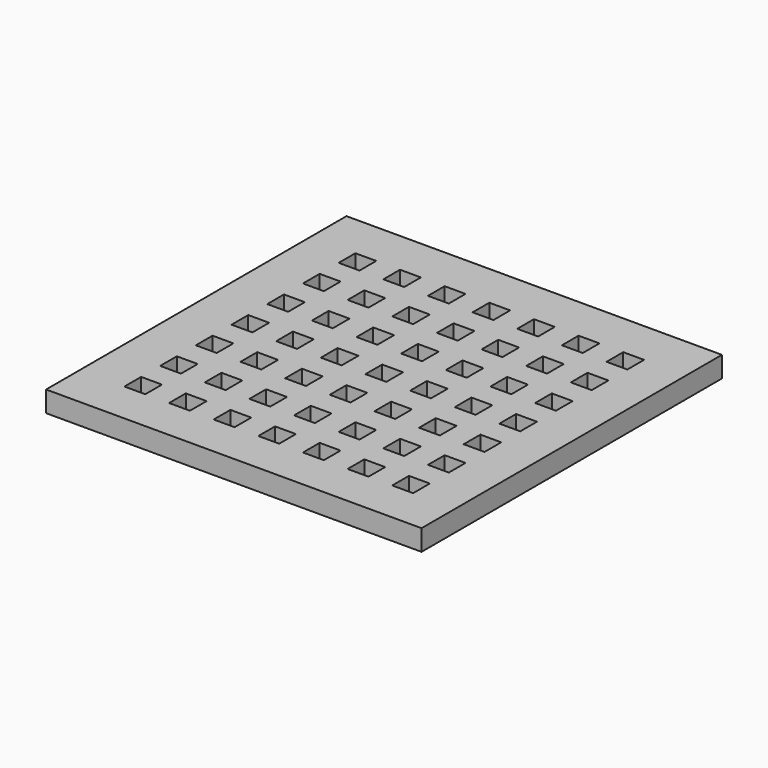
from build123d import *

# Parameters (mm, degrees)
F0_W     = 228.6
F0_H     = 228.6
F1_DEPTH = 12.7
F2_W     = 12.7
F2_H     = 12.7
F3_DEPTH = 25.4


with BuildPart() as f1:
    # F0 (on Top) → F1 (new body)
    with BuildSketch(Plane.XY):
        with Locations((2.709044, 2.314238)):
            Rectangle(F0_W, F0_H)
    extrude(amount=F1_DEPTH)

    # F2 (on face) → F3 (cut)
    with BuildSketch(Plane.XY.offset(12.7)):
        with Locations((-78.062956, 83.086238)):
            Rectangle(F2_W, F2_H)
        with Locations((-50.884956, 83.086238)):
            Rectangle(F2_W, F2_H)
        with Locations((-23.706956, 83.086238)):
            Rectangle(F2_W, F2_H)
        with Locations((3.471044, 83.086238)):
            Rectangle(F2_W, F2_H)
        with Locations((30.649044, 83.086238)):
            Rectangle(F2_W, F2_H)
        with Locations((57.827044, 83.086238)):
            Rectangle(F2_W, F2_H)
        with Locations((85.005044, 83.086238)):
            Rectangle(F2_W, F2_H)
        with Locations((85.005044, 55.908238)):
            Rectangle(F2_W, F2_H)
        with Locations((57.827044, 55.908238)):
            Rectangle(F2_W, F2_H)
        with Locations((30.649044, 55.908238)):
            Rectangle(F2_W, F2_H)
        with Locations((3.471044, 55.908238)):
            Rectangle(F2_W, F2_H)
        with Locations((-23.706956, 55.908238)):
            Rectangle(F2_W, F2_H)
        with Locations((-50.884956, 55.908238)):
            Rectangle(F2_W, F2_H)
        with Locations((-78.062956, 55.908238)):
            Rectangle(F2_W, F2_H)
        with Locations((-78.062956, 28.730238)):
            Rectangle(F2_W, F2_H)
        with Locations((-50.884956, 28.730238)):
            Rectangle(F2_W, F2_H)
        with Locations((-23.706956, 28.730238)):
            Rectangle(F2_W, F2_H)
        with Locations((3.471044, 28.730238)):
            Rectangle(F2_W, F2_H)
        with Locations((30.649044, 28.730238)):
            Rectangle(F2_W, F2_H)
        with Locations((57.827044, 28.730238)):
            Rectangle(F2_W, F2_H)
        with Locations((85.005044, 28.730238)):
            Rectangle(F2_W, F2_H)
        with Locations((57.827044, 1.552238)):
            Rectangle(F2_W, F2_H)
        with Locations((30.649044, 1.552238)):
            Rectangle(F2_W, F2_H)
        with Locations((85.005044, 1.552238)):
            Rectangle(F2_W, F2_H)
        with Locations((3.471044, 1.552238)):
            Rectangle(F2_W, F2_H)
        with Locations((-23.706956, 1.552238)):
            Rectangle(F2_W, F2_H)
        with Locations((-50.884956, 1.552238)):
            Rectangle(F2_W, F2_H)
        with Locations((-78.062956, 1.552238)):
            Rectangle(F2_W, F2_H)
        with Locations((-78.062956, -25.625762)):
            Rectangle(F2_W, F2_H)
        with Locations((-78.062956, -52.803762)):
            Rectangle(F2_W, F2_H)
        with Locations((-78.062956, -79.981762)):
            Rectangle(F2_W, F2_H)
        with Locations((-50.884956, -79.981762)):
            Rectangle(F2_W, F2_H)
        with Locations((-50.884956, -52.803762)):
            Rectangle(F2_W, F2_H)
        with Locations((-50.884956, -25.625762)):
            Rectangle(F2_W, F2_H)
        with Locations((-23.706956, -25.625762)):
            Rectangle(F2_W, F2_H)
        with Locations((-23.706956, -52.803762)):
            Rectangle(F2_W, F2_H)
        with Locations((-23.706956, -79.981762)):
            Rectangle(F2_W, F2_H)
        with Locations((3.471044, -79.981762)):
            Rectangle(F2_W, F2_H)
        with Locations((3.471044, -52.803762)):
            Rectangle(F2_W, F2_H)
        with Locations((3.471044, -25.625762)):
            Rectangle(F2_W, F2_H)
        with Locations((30.649044, -25.625762)):
            Rectangle(F2_W, F2_H)
        with Locations((30.649044, -52.803762)):
            Rectangle(F2_W, F2_H)
        with Locations((30.649044, -79.981762)):
            Rectangle(F2_W, F2_H)
        with Locations((57.827044, -79.981762)):
            Rectangle(F2_W, F2_H)
        with Locations((57.827044, -52.803762)):
            Rectangle(F2_W, F2_H)
        with Locations((57.827044, -25.625762)):
            Rectangle(F2_W, F2_H)
        with Locations((85.005044, -25.625762)):
            Rectangle(F2_W, F2_H)
        with Locations((85.005044, -52.803762)):
            Rectangle(F2_W, F2_H)
        with Locations((85.005044, -79.981762)):
            Rectangle(F2_W, F2_H)
    extrude(amount=-F3_DEPTH, mode=Mode.SUBTRACT)


solid = f1.part
